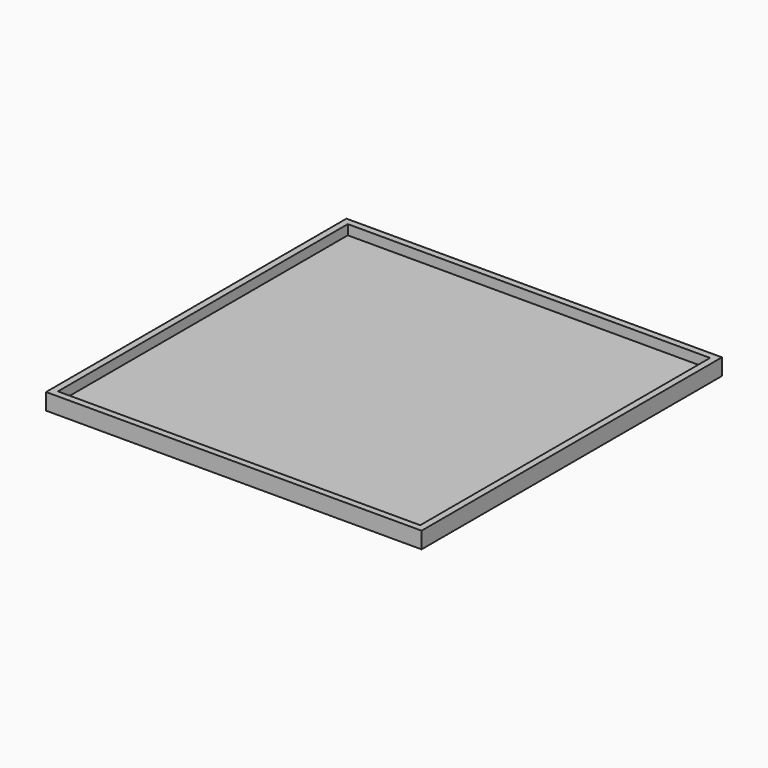
from build123d import *

# Parameters (mm, degrees)
BOX_W        = 110
BOX_H        = 110
BOX_DEPTH    = 5
BOX002_W     = 114
BOX002_H     = 114
BOX002_DEPTH = 5


with BuildPart() as cubeinner:
    # Box → Box (new body)
    with BuildSketch(Plane(origin=(-29, -61, -22), x_dir=(1, 0, 0), z_dir=(0, 0, 1))):
        with Locations((55, 55)):
            Rectangle(BOX_W, BOX_H)
    extrude(amount=BOX_DEPTH)


with BuildPart() as cut:
    # Box002 → Box002 (new body)
    with BuildSketch(Plane(origin=(-31, -63, -24), x_dir=(1, 0, 0), z_dir=(0, 0, 1))):
        with Locations((57, 57)):
            Rectangle(BOX002_W, BOX002_H)
    extrude(amount=BOX002_DEPTH)

    # Cut: cut CubeInner
    add(cubeinner.part, mode=Mode.SUBTRACT)


solid = cut.part
